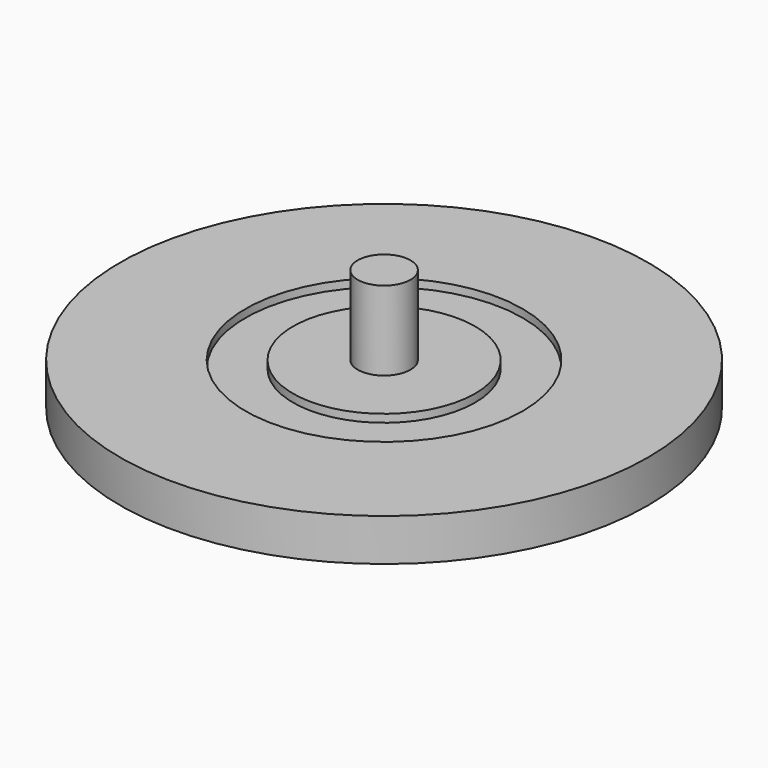
from build123d import *

# Parameters (mm, degrees)
F0_R     = 50
F1_DEPTH = 8
F2_R     = 26.25
F2_R_2   = 17.25
F3_DEPTH = 1.5
F4_R     = 5
F5_DEPTH = 15


with BuildPart() as f1:
    # F0 (on Top) → F1 (new body)
    with BuildSketch(Plane.XY):
        Circle(F0_R)
    extrude(amount=F1_DEPTH)

    # F2 (on face) → F3 (cut)
    with BuildSketch(Plane.XY.offset(8)):
        Circle(F2_R)
        Circle(F2_R_2, mode=Mode.SUBTRACT)
    extrude(amount=-F3_DEPTH, mode=Mode.SUBTRACT)

    # F4 (on face) → F5 (join)
    with BuildSketch(Plane.XY.offset(8)):
        Circle(F4_R)
    extrude(amount=F5_DEPTH)


solid = f1.part
